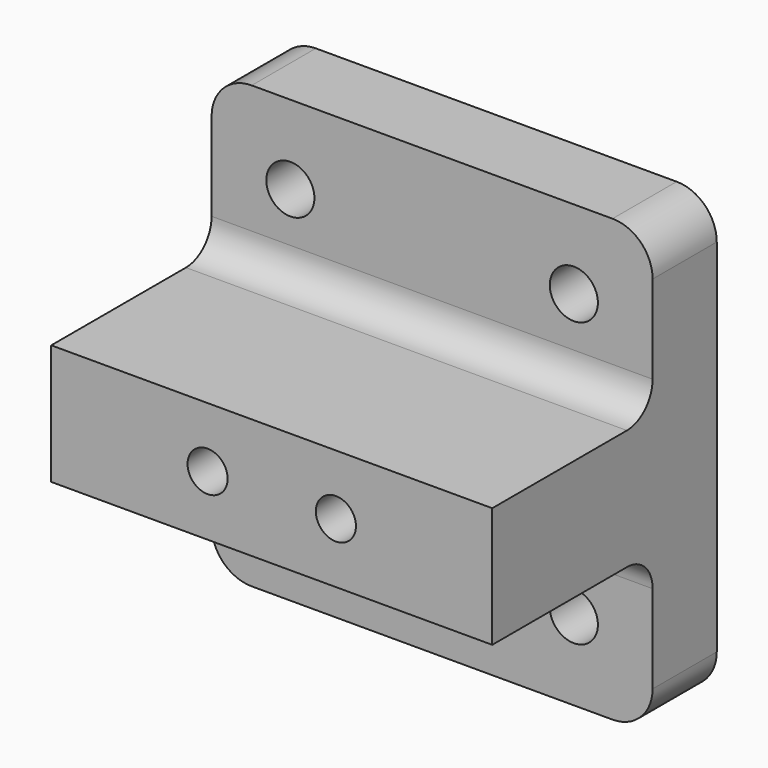
from build123d import *

# Parameters (mm, degrees)
F0_W          = 55
F0_H          = 55
F0_R          = 3
F1_DEPTH      = 10
F2_R          = 5
F3_W          = 25
F3_H          = 15
F4_DEPTH      = 55
F5_R          = 2.5
F6_DEPTH      = 10.001
F6_DEPTH_BACK = 25.001
F7_R          = 4


with BuildPart() as f1:
    # F0 (on Front) → F1 (new body)
    with BuildSketch(Plane.XZ):
        Rectangle(F0_W, F0_H)
        with Locations((-17.6776695297, -17.6776695297)):
            Circle(F0_R, mode=Mode.SUBTRACT)
        with Locations((17.6776695297, -17.6776695297)):
            Circle(F0_R, mode=Mode.SUBTRACT)
        with Locations((-17.6776695297, 17.6776695297)):
            Circle(F0_R, mode=Mode.SUBTRACT)
        with Locations((17.6776695297, 17.6776695297)):
            Circle(F0_R, mode=Mode.SUBTRACT)
    extrude(amount=F1_DEPTH)

    # F2
    f2_edges = [f1.edges().sort_by_distance(p)[0] for p in [
        (-27.5, -5, 27.5),
        (-27.5, -5, -27.5),
        (27.5, -5, 27.5),
        (27.5, -5, -27.5),
    ]]
    fillet(f2_edges, radius=F2_R)

    # F3 (on face) → F4 (join)
    with BuildSketch(Plane.YZ.offset(27.5)):
        with Locations((-22.5, 0)):
            Rectangle(F3_W, F3_H)
    extrude(amount=-F4_DEPTH)

    # F5 (on face) → F6 (cut, two sides)
    with BuildSketch(Plane.XZ.offset(10)) as f6_sk:
        with Locations((8, 0)):
            Circle(F5_R)
        with Locations((-8, 0)):
            Circle(F5_R)
    extrude(amount=-F6_DEPTH, mode=Mode.SUBTRACT)
    extrude(f6_sk.sketch, amount=F6_DEPTH_BACK, mode=Mode.SUBTRACT)

    # F7
    f7_edges = [f1.edges().sort_by_distance(p)[0] for p in [
        (0, -10, -7.5),
        (0, -10, 7.5),
    ]]
    fillet(f7_edges, radius=F7_R)


solid = f1.part
